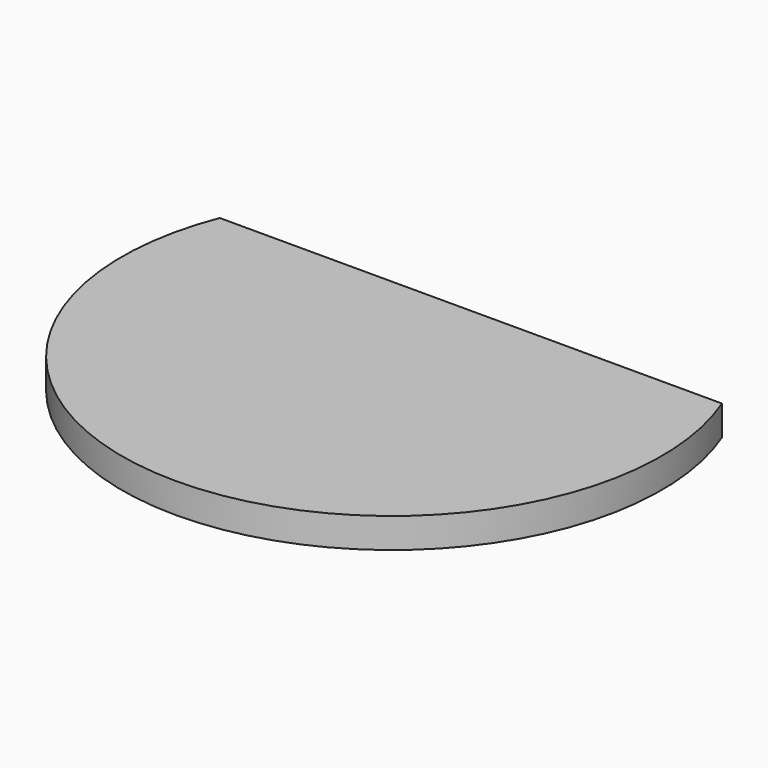
from build123d import *

# Parameters (mm, degrees)
SKETCH_1_R     = 45
PAD_1_DEPTH    = 5
SKETCH_2_W     = 135
SKETCH_2_H     = 45
POCKET_2_DEPTH = 5.001


with BuildPart() as part:
    # Sketch_1 → Pad_1 (new body)
    with BuildSketch(Plane.XY):
        Circle(SKETCH_1_R)
    extrude(amount=PAD_1_DEPTH)

    # Sketch_2 (on Face3 of Pad_1) → Pocket_2 (cut, through all)
    with BuildSketch(Plane.XY.offset(5)):
        with Locations((0, 39)):
            Rectangle(SKETCH_2_W, SKETCH_2_H)
    extrude(amount=-POCKET_2_DEPTH, mode=Mode.SUBTRACT)


solid = part.part
